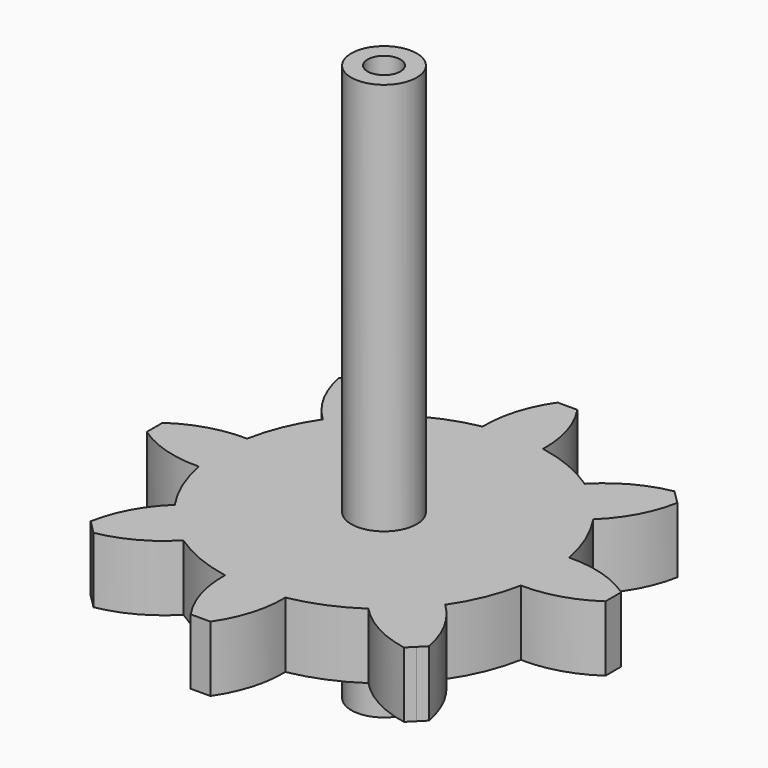
from build123d import *

# Parameters (mm, degrees)
F1_DEPTH      = 20
F2_R          = 10
F3_DEPTH      = 120
F3_DEPTH_BACK = 50
F4_R          = 5
F5_DEPTH      = 170


with BuildPart() as f1:
    # F0 (on Top) → F1 (new body)
    with BuildSketch(Plane.XY):
        with BuildLine():
            ThreePointArc((49.143051, -9.217405), (49.785302, -4.628578), (50, 0))
            ThreePointArc((50, 0), (49.785302, 4.628578), (49.143051, 9.217405))
            ThreePointArc((49.143051, 9.217405), (46.193977, 19.134172), (41.267074, 28.231695))
            ThreePointArc((41.267074, 28.231695), (35.355339, 35.355339), (28.231695, 41.267074))
            ThreePointArc((28.231695, 41.267074), (19.134172, 46.193977), (9.217405, 49.143051))
            ThreePointArc((9.217405, 49.143051), (4.628578, 49.785302), (0, 50))
            ThreePointArc((0, 50), (-4.628578, 49.785302), (-9.217405, 49.143051))
            ThreePointArc((-9.217405, 49.143051), (-19.134172, 46.193977), (-28.231695, 41.267074))
            ThreePointArc((-28.231695, 41.267074), (-35.355339, 35.355339), (-41.267074, 28.231695))
            ThreePointArc((-41.267074, 28.231695), (-46.193977, 19.134172), (-49.143051, 9.217405))
            ThreePointArc((-49.143051, 9.217405), (-50, 0), (-49.143051, -9.217405))
            ThreePointArc((-49.143051, -9.217405), (-46.193977, -19.134172), (-41.267074, -28.231695))
            ThreePointArc((-41.267074, -28.231695), (-35.355339, -35.355339), (-28.231695, -41.267074))
            ThreePointArc((-28.231695, -41.267074), (-19.134172, -46.193977), (-9.217405, -49.143051))
            ThreePointArc((-9.217405, -49.143051), (0, -50), (9.217405, -49.143051))
            ThreePointArc((9.217405, -49.143051), (19.134172, -46.193977), (28.231695, -41.267074))
            ThreePointArc((28.231695, -41.267074), (35.355339, -35.355339), (41.267074, -28.231695))
            ThreePointArc((41.267074, -28.231695), (46.193977, -19.134172), (49.143051, -9.217405))
        make_face()
        with BuildLine():
            ThreePointArc((49.143051, 9.217405), (49.785302, 4.628578), (50, 0))
            ThreePointArc((50, 0), (49.785302, -4.628578), (49.143051, -9.217405))
            ThreePointArc((49.143051, -9.217405), (60.063704, -7.759767), (70, -3))
            Line((70, -3), (70, 0))
            Line((70, 0), (70, 3))
            ThreePointArc((70, 3), (60.063704, 7.759767), (49.143051, 9.217405))
        make_face()
        with BuildLine():
            ThreePointArc((28.231695, 41.267074), (35.355339, 35.355339), (41.267074, 28.231695))
            ThreePointArc((41.267074, 28.231695), (47.958436, 36.984468), (51.618795, 47.376154))
            Line((51.618795, 47.376154), (49.497475, 49.497475))
            Line((49.497475, 49.497475), (47.376154, 51.618795))
            ThreePointArc((47.376154, 51.618795), (36.984468, 47.958436), (28.231695, 41.267074))
        make_face()
        with BuildLine():
            ThreePointArc((51.618795, -47.376154), (47.958436, -36.984468), (41.267074, -28.231695))
            ThreePointArc((41.267074, -28.231695), (35.355339, -35.355339), (28.231695, -41.267074))
            ThreePointArc((28.231695, -41.267074), (36.984468, -47.958436), (47.376154, -51.618795))
            Line((47.376154, -51.618795), (49.497475, -49.497475))
            Line((49.497475, -49.497475), (51.618795, -47.376154))
        make_face()
        with BuildLine():
            ThreePointArc((0, 50), (4.628578, 49.785302), (9.217405, 49.143051))
            ThreePointArc((9.217405, 49.143051), (7.759767, 60.063704), (3, 70))
            Line((3, 70), (0, 70))
            Line((0, 70), (0, 50))
        make_face()
        with BuildLine():
            ThreePointArc((3, -70), (7.759767, -60.063704), (9.217405, -49.143051))
            ThreePointArc((9.217405, -49.143051), (0, -50), (-9.217405, -49.143051))
            ThreePointArc((-9.217405, -49.143051), (-7.759767, -60.063704), (-3, -70))
            Line((-3, -70), (0, -70))
            Line((0, -70), (3, -70))
        make_face()
        with BuildLine():
            ThreePointArc((-9.217405, 49.143051), (-4.628578, 49.785302), (0, 50))
            Line((0, 50), (0, 70))
            Line((0, 70), (-3, 70))
            ThreePointArc((-3, 70), (-7.759767, 60.063704), (-9.217405, 49.143051))
        make_face()
        with BuildLine():
            ThreePointArc((-47.376154, -51.618795), (-36.984468, -47.958436), (-28.231695, -41.267074))
            ThreePointArc((-28.231695, -41.267074), (-35.355339, -35.355339), (-41.267074, -28.231695))
            ThreePointArc((-41.267074, -28.231695), (-47.958436, -36.984468), (-51.618795, -47.376154))
            Line((-51.618795, -47.376154), (-49.497475, -49.497475))
            Line((-49.497475, -49.497475), (-47.376154, -51.618795))
        make_face()
        with BuildLine():
            ThreePointArc((-41.267074, 28.231695), (-35.355339, 35.355339), (-28.231695, 41.267074))
            ThreePointArc((-28.231695, 41.267074), (-36.984468, 47.958436), (-47.376154, 51.618795))
            Line((-47.376154, 51.618795), (-49.497475, 49.497475))
            Line((-49.497475, 49.497475), (-51.618795, 47.376154))
            ThreePointArc((-51.618795, 47.376154), (-47.958436, 36.984468), (-41.267074, 28.231695))
        make_face()
        with BuildLine():
            ThreePointArc((-70, -3), (-60.063704, -7.759767), (-49.143051, -9.217405))
            ThreePointArc((-49.143051, -9.217405), (-50, 0), (-49.143051, 9.217405))
            ThreePointArc((-49.143051, 9.217405), (-60.063704, 7.759767), (-70, 3))
            Line((-70, 3), (-70, 0))
            Line((-70, 0), (-70, -3))
        make_face()
    extrude(amount=F1_DEPTH)

    # F2 (on face) → F3 (join, two sides)
    with BuildSketch(Plane.XY.offset(20)) as f3_sk:
        Circle(F2_R)
    extrude(amount=F3_DEPTH)
    extrude(f3_sk.sketch, amount=-F3_DEPTH_BACK)

    # F4 (on face) → F5 (cut, through all)
    with BuildSketch(Plane.XY.offset(140)):
        Circle(F4_R)
    extrude(amount=-F5_DEPTH, mode=Mode.SUBTRACT)


solid = f1.part
